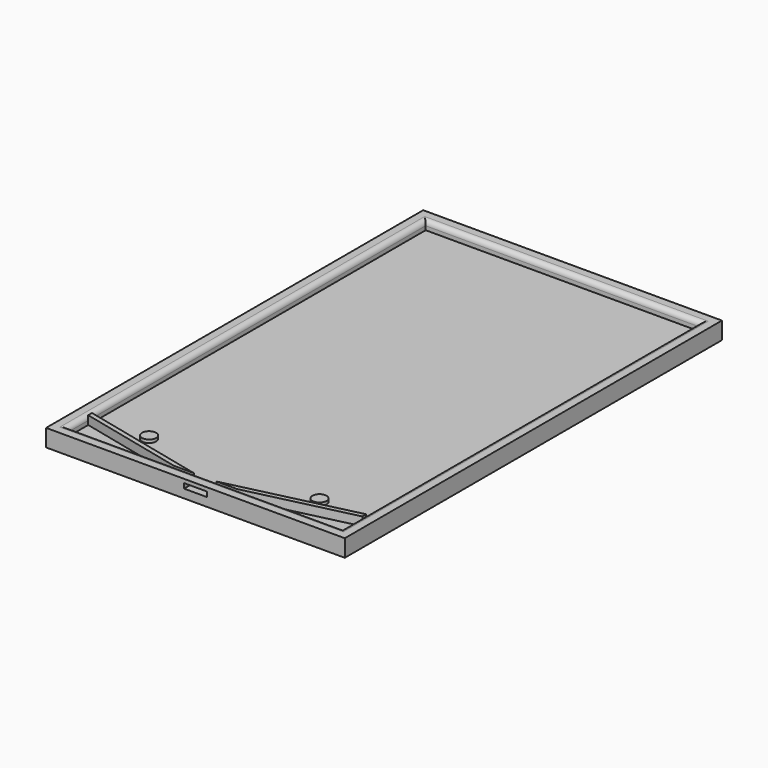
from build123d import *

# Parameters (mm, degrees)
F0_W      = 96.700832
F0_H      = 152.601854
F1_DEPTH  = 1.397
F2_W      = 96.700832
F2_H      = 152.601854
F2_W_2    = 88.725232
F2_H_2    = 144.626254
F3_DEPTH  = 2.794
F4_R      = 1.524
F5_R      = 2.286
F6_DEPTH  = 1.016
F8_W      = 7.366
F8_H      = 1.582388
F9_DEPTH  = 25.4
F11_DEPTH = 2.794


with BuildPart() as f1:
    # F0 (on Top) → F1 (new body, symmetric)
    with BuildSketch(Plane.XY):
        Rectangle(F0_W, F0_H)
    extrude(amount=F1_DEPTH, both=True)

    # F2 (on face) → F3 (join)
    with BuildSketch(Plane.XY.offset(1.397)):
        Rectangle(F2_W, F2_H)
        Rectangle(F2_W_2, F2_H_2, mode=Mode.SUBTRACT)
    extrude(amount=F3_DEPTH)

    # F4
    f4_edges = [f1.edges().sort_by_distance(p)[0] for p in [
        (-44.362616, 0, 4.191),
        (0, 72.313127, 4.191),
        (44.362616, 0, 4.191),
        (0, -72.313127, 4.191),
    ]]
    fillet(f4_edges, radius=F4_R)

    # F5 (on face) → F6 (join)
    with BuildSketch(Plane.XY.offset(1.397)):
        with Locations((27.586563, -60.575493)):
            Circle(F5_R)
    extrude(amount=F6_DEPTH)


with BuildPart() as f7_1:
    # F7: instance of F1
    add(f1.part.mirror(Plane.YZ))


with BuildPart() as f9_tool:
    # F8 (on face) → F9 (new body)
    with BuildSketch(Plane.XZ.offset(76.300927)):
        with Locations((0, 2.188194)):
            Rectangle(F8_W, F8_H)
    extrude(amount=-F9_DEPTH)


with BuildPart() as f1_1:
    add(f1.part)

    # F9: cut by f9_tool
    add(f9_tool.part, mode=Mode.SUBTRACT)


with BuildPart() as f7_1_1:
    add(f7_1.part)

    # F9: cut by f9_tool
    add(f9_tool.part, mode=Mode.SUBTRACT)


with BuildPart() as f11:
    # F10 (on face) → F11 (new body)
    with BuildSketch(Plane.XY.offset(1.397)):
        Polygon((44.362616, -62.693246), (3.683, -72.313127), (10.208725, -72.313127), (44.362616, -64.236443), align=None)
    extrude(amount=F11_DEPTH)


with BuildPart() as f12_1:
    # F12: instance of F11
    add(f11.part.mirror(Plane.YZ))


solid = Compound([f1_1.part, f7_1_1.part, f11.part, f12_1.part])
